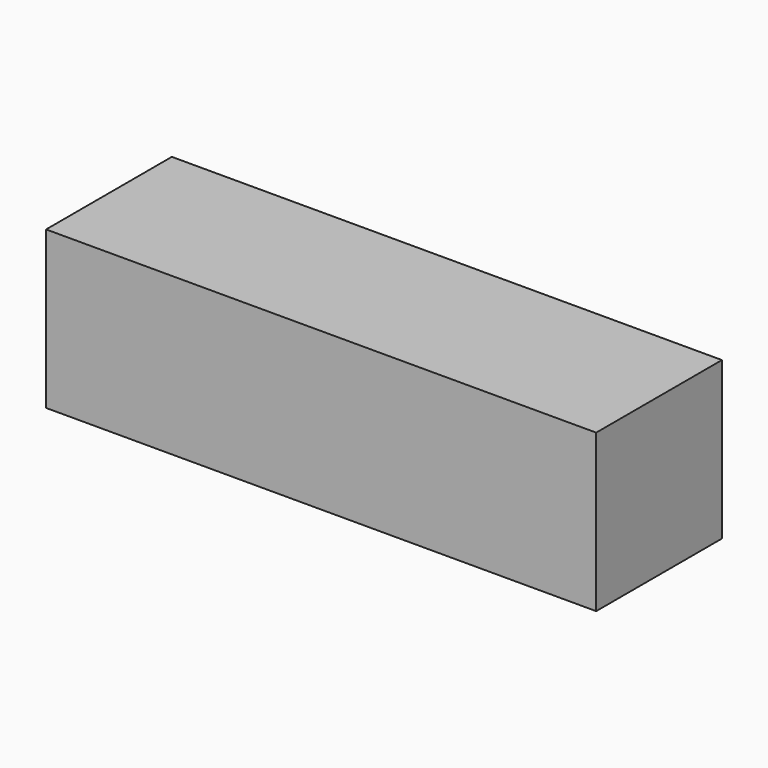
from build123d import *

# Parameters (mm, degrees)
F0_W     = 10
F0_H     = 10
F0_W_2   = 20
F0_W_3   = 5
F1_DEPTH = 5


with BuildPart() as f1:
    # F0 (on Front) → F1 (new body, symmetric)
    with BuildSketch(Plane.XZ):
        with Locations((-30, -135)):
            Rectangle(F0_W, F0_H)
        with Locations((-15, -135)):
            Rectangle(F0_W_2, F0_H)
        with Locations((-2.5, -135)):
            Rectangle(F0_W_3, F0_H)
    extrude(amount=F1_DEPTH, both=True)


solid = f1.part
